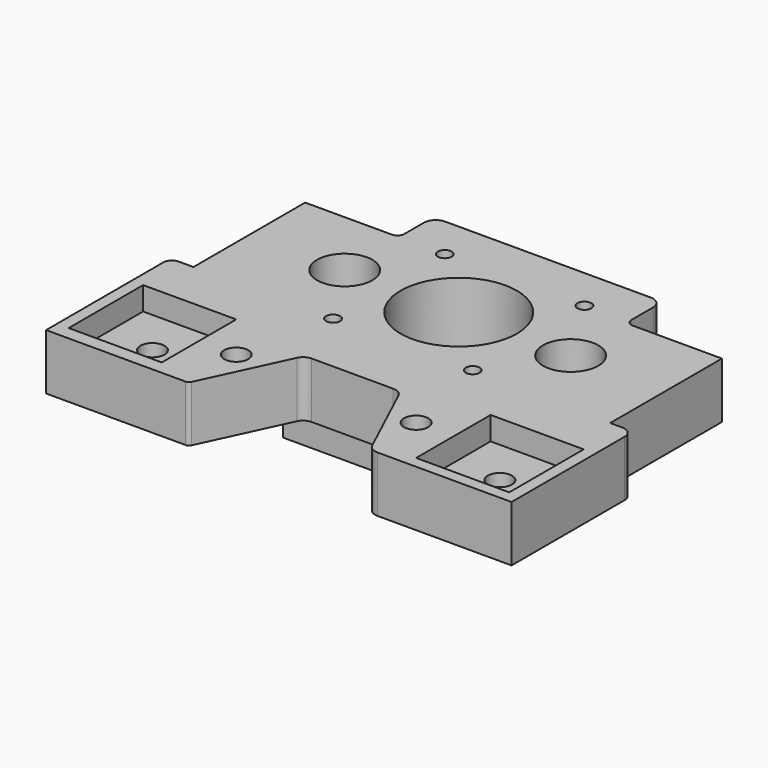
from build123d import *

# Parameters (mm, degrees)
SKETCH_R        = 2.6
SKETCH_R_2      = 12.5
SKETCH_R_3      = 5.95
PAD_DEPTH       = 12
SKETCH001_W     = 42
SKETCH001_H     = 42
SKETCH001_R     = 12.5
PAD001_DEPTH    = 10
SKETCH002_R     = 1.5
POCKET_DEPTH    = 35
SKETCH003_W     = 20
SKETCH003_H     = 20
POCKET001_DEPTH = 5


with BuildPart() as part:
    # Sketch → Pad (new body)
    with BuildSketch(Plane.XY):
        with BuildLine():
            Line((32.475943, 55.828477), (32.475943, 25.828477))
            Line((32.475943, 25.828477), (35.048585, 25.828477))
            ThreePointArc((37.475943, 23.401119), (36.764986, 25.11752), (35.048585, 25.828477))
            Line((37.475943, 23.401119), (37.475943, 20.978201))
            Line((37.475943, -6.914348), (37.475943, 20.978201))
            Line((8.697616, -6.914348), (37.475943, -6.914348))
            ThreePointArc((6.370265, -5.431662), (7.317859, -6.512185), (8.697616, -6.914348))
            Line((-1.46574, 11.372705), (6.370265, -5.431662))
            ThreePointArc((-1.46574, 11.372705), (-2.398838, 12.4367), (-3.75749, 12.832711))
            Line((-21.304181, 12.832711), (-3.75749, 12.832711))
            ThreePointArc((-21.304181, 12.832711), (-22.516993, 12.479209), (-23.349932, 11.529424))
            Line((-31.707968, -6.394442), (-23.349932, 11.529424))
            ThreePointArc((-32.524057, -6.914348), (-32.040243, -6.773329), (-31.707968, -6.394442))
            Line((-62.524057, -6.914348), (-32.524057, -6.914348))
            Line((-62.524057, 17.407665), (-62.524057, -6.914348))
            Line((-62.524057, 17.407665), (-62.524057, 24.589269))
            ThreePointArc((-60.707672, 26.405654), (-61.99205, 25.873647), (-62.524057, 24.589269))
            Line((-60.707672, 26.405654), (-57.524057, 26.405654))
            Line((-57.524057, 26.405654), (-57.524057, 56.405654))
            Line((-57.524057, 56.405654), (-38.879514, 56.405654))
            ThreePointArc((-38.879514, 56.405654), (-37.835318, 56.838174), (-37.402798, 57.882371))
            Line((-37.402798, 57.882371), (-37.402798, 63.120448))
            ThreePointArc((-34.836585, 65.686661), (-36.651171, 64.935034), (-37.402798, 63.120448))
            Line((-34.836585, 65.686661), (9.286369, 65.686661))
            ThreePointArc((11.852582, 63.120448), (11.100956, 64.935034), (9.286369, 65.686661))
            Line((11.852582, 63.120448), (11.852582, 57.305194))
            ThreePointArc((11.852582, 57.305194), (12.285103, 56.260997), (13.329299, 55.828477))
            Line((13.329299, 55.828477), (32.475943, 55.828477))
        make_face()
        with Locations((-50.024057, 6.023385)):
            Circle(SKETCH_R, mode=Mode.SUBTRACT)
        with Locations((-32.024057, 6.023385)):
            Circle(SKETCH_R, mode=Mode.SUBTRACT)
        with Locations((24.975943, 5.585652)):
            Circle(SKETCH_R, mode=Mode.SUBTRACT)
        with Locations((6.975943, 5.585652)):
            Circle(SKETCH_R, mode=Mode.SUBTRACT)
        with Locations((-12.524057, 41.405654)):
            Circle(SKETCH_R_2, mode=Mode.SUBTRACT)
        with Locations((-37.024057, 41.405654)):
            Circle(SKETCH_R_3, mode=Mode.SUBTRACT)
        with Locations((11.975943, 40.828477)):
            Circle(SKETCH_R_3, mode=Mode.SUBTRACT)
    extrude(amount=PAD_DEPTH)

    # Sketch001 (on Face36 of Pad) → Pad001 (join)
    with BuildSketch(Plane(origin=(0, 0, 0), x_dir=(1, 0, 0), z_dir=(0, 0, -1))):
        with Locations((-12.524057, -41.405654)):
            Rectangle(SKETCH001_W, SKETCH001_H)
        with Locations((-12.524057, -41.405654)):
            Circle(SKETCH001_R, mode=Mode.SUBTRACT)
    extrude(amount=PAD001_DEPTH)

    # Sketch002 (on Face43 of Pad001) → Pocket (cut)
    with BuildSketch(Plane(origin=(0, 0, -10), x_dir=(1, 0, 0), z_dir=(0, 0, -1))):
        with Locations((-27.524057, -26.405654)):
            Circle(SKETCH002_R)
        with Locations((2.475943, -26.405654)):
            Circle(SKETCH002_R)
        with Locations((2.475943, -56.405654)):
            Circle(SKETCH002_R)
        with Locations((-27.524057, -56.405654)):
            Circle(SKETCH002_R)
    extrude(amount=-POCKET_DEPTH, mode=Mode.SUBTRACT)

    # Sketch003 (on Face5 of Pocket) → Pocket001 (cut)
    with BuildSketch(Plane.XY.offset(12)):
        with Locations((-50.024057, 6.023385)):
            Rectangle(SKETCH003_W, SKETCH003_H)
        with Locations((24.975943, 5.585652)):
            Rectangle(SKETCH003_W, SKETCH003_H)
    extrude(amount=-POCKET001_DEPTH, mode=Mode.SUBTRACT)


solid = part.part
